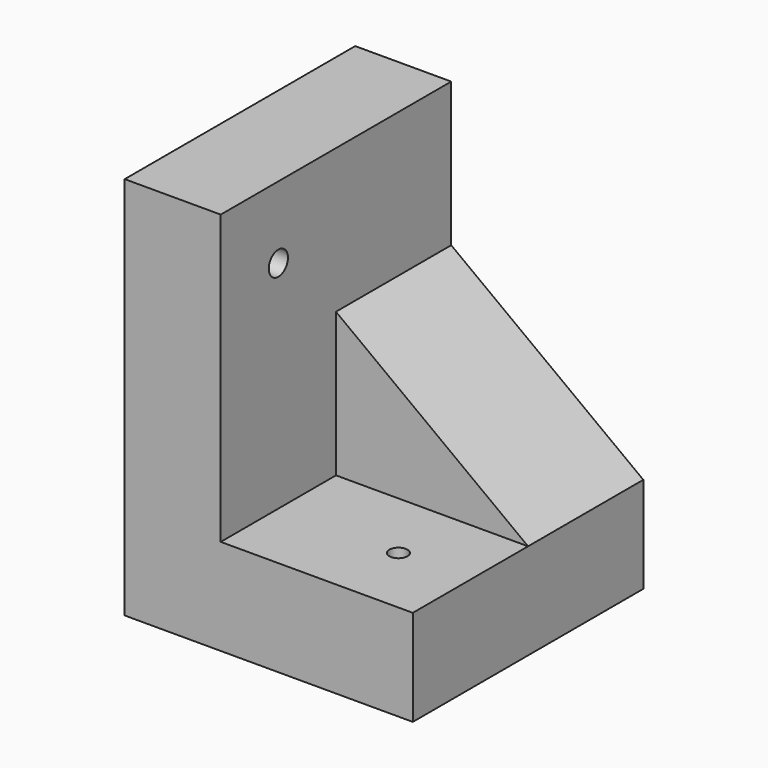
from build123d import *

# Parameters (mm, degrees)
F1_DEPTH = 152.4
F2_W     = 101.6
F2_H     = 76.2
F3_DEPTH = 76.2
F5_DEPTH = 76.2
F7_D     = 9.525
F9_D     = 12.7


with BuildPart() as f1:
    # F0 (on Front) → F1 (new body)
    with BuildSketch(Plane.XZ):
        Polygon((3.921535, 106.47496), (-46.878465, 106.47496), (-46.878465, -96.72504), (105.521535, -96.72504), (105.521535, -45.92504), (3.921535, -45.92504), align=None)
    extrude(amount=F1_DEPTH)

    # F2 (on face) → F3 (join)
    with BuildSketch(Plane.XY.offset(-45.92504)):
        with Locations((54.721535, -38.1)):
            Rectangle(F2_W, F2_H)
    extrude(amount=F3_DEPTH)

    # F4 (on face) → F5 (cut)
    with BuildSketch(Plane.XZ.offset(76.2)):
        Polygon((105.521535, 30.27496), (3.921535, 30.27496), (105.521535, -45.92504), align=None)
    extrude(amount=-F5_DEPTH, mode=Mode.SUBTRACT)

    # F7 (through all)
    with Locations(Plane.XY.offset(-45.92504)):
        with Locations((67.421535, -114.3)):
            Hole(F7_D / 2)

    # F9 (through all)
    with Locations(Plane.YZ.offset(3.921535)):
        with Locations((-114.3, 68.37496)):
            Hole(F9_D / 2)


solid = f1.part
